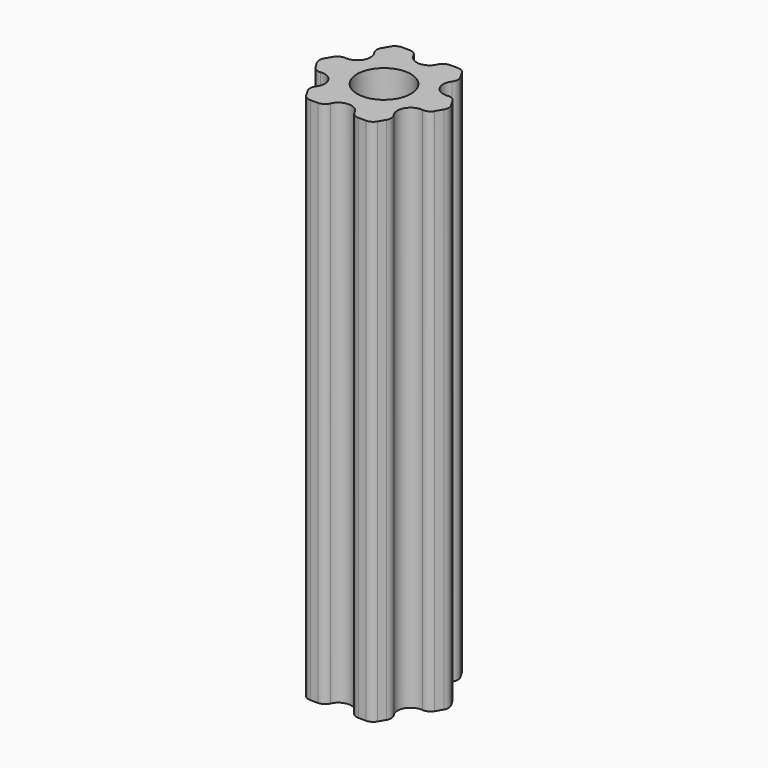
from build123d import *

# Parameters (mm, degrees)
PAD_DEPTH       = 120
SKETCH001_R     = 6.1
POCKET_DEPTH    = 40
SKETCH002_R     = 3
POCKET001_DEPTH = 120.001
FILLET_R        = 2


with BuildPart() as part:
    # Sketch → Pad (new body)
    with BuildSketch(Plane.XY):
        Polygon((-7.5, -12.990381), (7.5, -12.990381), (15, 0), (7.5, 12.990381), (-7.5, 12.990381), (-15, 0), align=None)
    extrude(amount=PAD_DEPTH)

    # Sketch001 (on Face8 of Pad) → Pocket (cut)
    with BuildSketch(Plane.XY.offset(120)):
        Circle(SKETCH001_R)
    extrude(amount=-POCKET_DEPTH, mode=Mode.SUBTRACT)

    # Sketch002 (on Face5 of Pocket) → Pocket001 (cut, through all)
    with BuildSketch(Plane.XY.offset(120)):
        with Locations((-11.25, 6.495191)):
            Circle(SKETCH002_R)
        with Locations((0, 12.990381)):
            Circle(SKETCH002_R)
        with Locations((11.25, 6.495191)):
            Circle(SKETCH002_R)
        with Locations((11.25, -6.495191)):
            Circle(SKETCH002_R)
        with Locations((0, -12.990381)):
            Circle(SKETCH002_R)
        with Locations((-11.25, -6.495191)):
            Circle(SKETCH002_R)
    extrude(amount=-POCKET001_DEPTH, mode=Mode.SUBTRACT)

    # Fillet
    fillet_edges = [part.edges().sort_by_distance(p)[0] for p in [
        (-9.75, 9.093267, 60),
        (-3, 12.990381, 60),
        (-7.5, 12.990381, 60),
        (3, 12.990381, 60),
        (7.5, 12.990381, 60),
        (-15, 0, 60),
        (-12.75, 3.897114, 60),
        (-12.75, -3.897114, 60),
        (9.75, 9.093267, 60),
        (12.75, 3.897114, 60),
        (15, 0, 60),
        (12.75, -3.897114, 60),
        (9.75, -9.093267, 60),
        (7.5, -12.990381, 60),
        (3, -12.990381, 60),
        (-3, -12.990381, 60),
        (-7.5, -12.990381, 60),
        (-9.75, -9.093267, 60),
    ]]
    fillet(fillet_edges, radius=FILLET_R)


solid = part.part
